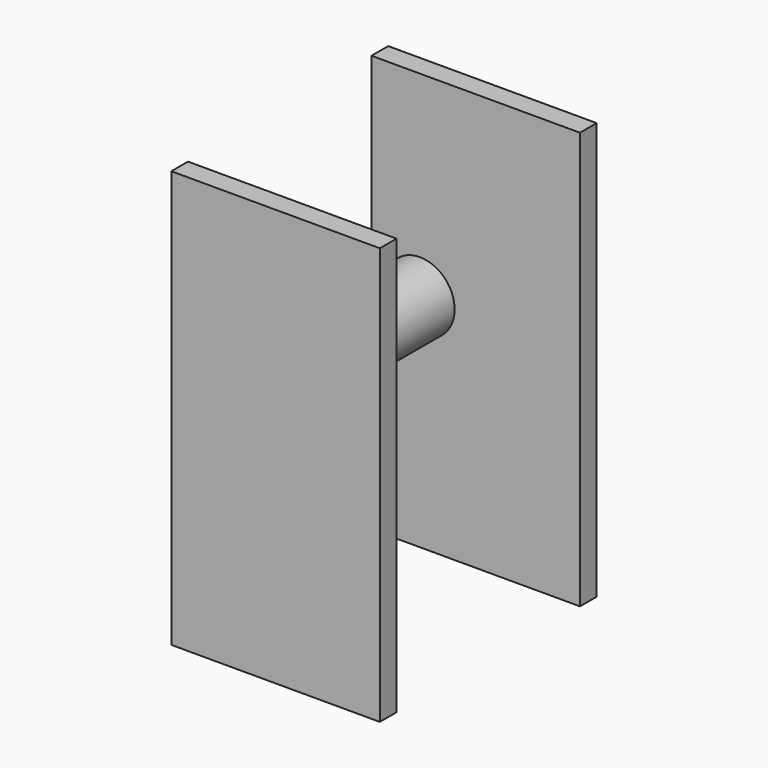
from build123d import *

# Parameters (mm, degrees)
F0_W     = 30
F0_H     = 60
F1_DEPTH = 3
F4_R     = 5
F5_DEPTH = 38


with BuildPart() as f1:
    # F0 (on Front) → F1 (new body)
    with BuildSketch(Plane.XZ):
        with Locations((-0.748981, -1.755373)):
            Rectangle(F0_W, F0_H)
    extrude(amount=F1_DEPTH)


with BuildPart() as f2_1:
    # F2: instance of F1
    add(f1.part.mirror(Plane(origin=(-0.748981, -3, -1.755373), x_dir=(1, 0, 0), z_dir=(0, -1, 0))))


with BuildPart() as f2_1_1:
    # F3: moved
    add(f2_1.part.moved(Location((0, -33, 0))))


with BuildPart() as f5:
    # F4 (on face) → F5 (new body)
    with BuildSketch(Plane(origin=(0, 0, 0), x_dir=(-1, 0, 0), z_dir=(0, 1, 0))):
        with Locations((8.783571, 0)):
            Circle(F4_R)
    extrude(amount=-F5_DEPTH)


with BuildPart() as f5_1:
    # F6: moved
    add(f5.part.moved(Location((0, -0.5, 0))))


solid = Compound([f1.part, f2_1_1.part, f5_1.part])
